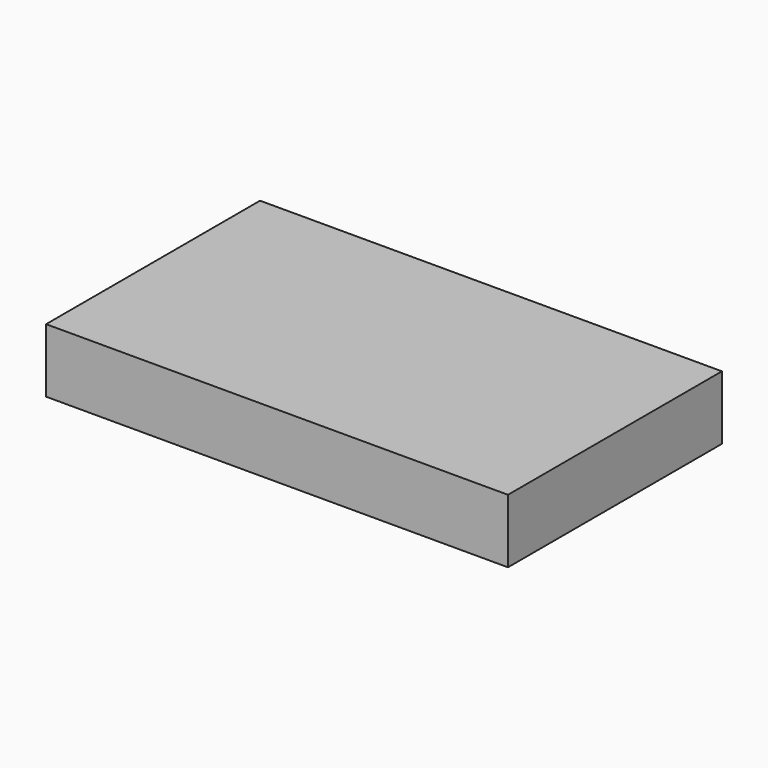
from build123d import *

# Parameters (mm, degrees)
F0_W     = 92.3543982208
F0_H     = 30.3276013583
F1_DEPTH = 127
F3_DEPTH = 127


with BuildPart() as f1:
    # F0 (on Front) → F1 (new body)
    with BuildSketch(Plane.XZ):
        with Locations((-29.7179985791, 15.1638006791)):
            Rectangle(F0_W, F0_H)
    extrude(amount=F1_DEPTH)

    # F3 (add): a face of the model
    f3_faces = [f1.faces().sort_by_distance(p)[0] for p in [
        (-75.8951976895, -63.5, 15.1638006791),
    ]]
    extrude(f3_faces, amount=F3_DEPTH)


solid = f1.part
